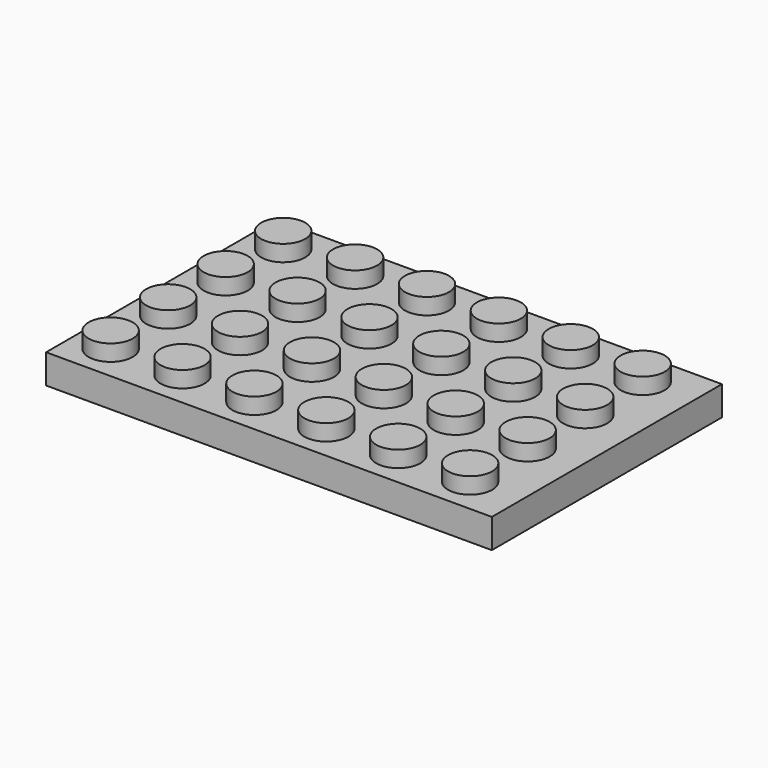
from build123d import *

# Parameters (mm, degrees)
F0_W      = 48.8188
F0_H      = 31.496
F1_DEPTH  = 3.20802
F2_R      = 2.413
F3_DEPTH  = 1.778
F4_DEPTH  = 1.778
F5_DEPTH  = 1.778
F6_DEPTH  = 1.778
F7_DEPTH  = 1.778
F8_DEPTH  = 1.778
F9_T      = -1.5748
F10_R     = 3.2131
F10_R_2   = 2.6224244876
F10_R_3   = 2.5317158825
F10_R_4   = 2.613200879
F11_DEPTH = 1.4563


with BuildPart() as f1:
    # F0 (on Top) → F1 (new body)
    with BuildSketch(Plane.XY):
        with Locations((24.4094, 15.748)):
            Rectangle(F0_W, F0_H)
    extrude(amount=F1_DEPTH)

    # F2 (on face) → F3 (join)
    with BuildSketch(Plane.XY.offset(3.20802)):
        with Locations((3.9209306593, 27.559)):
            Circle(F2_R)
    extrude(amount=F3_DEPTH)

    # F2 (on face) → F4 (join)
    with BuildSketch(Plane.XY.offset(3.20802)):
        with Locations((11.7949306593, 27.559)):
            Circle(F2_R)
    extrude(amount=F4_DEPTH)

    # F2 (on face) → F5 (join)
    with BuildSketch(Plane.XY.offset(3.20802)):
        with Locations((19.6689306593, 27.559)):
            Circle(F2_R)
    extrude(amount=F5_DEPTH)

    # F2 (on face) → F6 (join)
    with BuildSketch(Plane.XY.offset(3.20802)):
        with Locations((27.5429306593, 27.559)):
            Circle(F2_R)
    extrude(amount=F6_DEPTH)

    # F2 (on face) → F7 (join)
    with BuildSketch(Plane.XY.offset(3.20802)):
        with Locations((35.4169306593, 27.559)):
            Circle(F2_R)
    extrude(amount=F7_DEPTH)

    # F2 (on face) → F8 (join)
    with BuildSketch(Plane.XY.offset(3.20802)):
        with Locations((43.2909306593, 27.559)):
            Circle(F2_R)
        with Locations((3.9209306593, 19.685)):
            Circle(F2_R)
        with Locations((11.7949306593, 19.685)):
            Circle(F2_R)
        with Locations((19.6689306593, 19.685)):
            Circle(F2_R)
        with Locations((27.5429306593, 19.685)):
            Circle(F2_R)
        with Locations((35.4169306593, 19.685)):
            Circle(F2_R)
        with Locations((43.2909306593, 19.685)):
            Circle(F2_R)
        with Locations((43.2909306593, 11.811)):
            Circle(F2_R)
        with Locations((35.4169306593, 11.811)):
            Circle(F2_R)
        with Locations((27.5429306593, 11.811)):
            Circle(F2_R)
        with Locations((19.6689306593, 11.811)):
            Circle(F2_R)
        with Locations((11.7949306593, 11.811)):
            Circle(F2_R)
        with Locations((3.9209306593, 11.811)):
            Circle(F2_R)
        with Locations((3.9209306593, 3.937)):
            Circle(F2_R)
        with Locations((11.7949306593, 3.937)):
            Circle(F2_R)
        with Locations((19.6689306593, 3.937)):
            Circle(F2_R)
        with Locations((27.5429306593, 3.937)):
            Circle(F2_R)
        with Locations((35.4169306593, 3.937)):
            Circle(F2_R)
        with Locations((43.2909306593, 3.937)):
            Circle(F2_R)
    extrude(amount=F8_DEPTH)

    # F9
    f9_openings = [f1.faces().sort_by_distance(p)[0] for p in [
        (24.4094, 15.748, 0),
    ]]
    offset(amount=F9_T, openings=f9_openings, kind=Kind.INTERSECTION)

    # F10 (on face) → F11 (join)
    with BuildSketch(Plane(origin=(0, 0, 1.63322), x_dir=(1, 0, 0), z_dir=(0, 0, -1))):
        with Locations((15.7772629731, -7.8114119043)):
            Circle(F10_R)
        with Locations((15.7772629731, -7.8114119043)):
            Circle(F10_R_2, mode=Mode.SUBTRACT)
        with Locations((7.9032629731, -7.8114119043)):
            Circle(F10_R)
        with Locations((7.9032629731, -7.8114119043)):
            Circle(F10_R_2, mode=Mode.SUBTRACT)
        with Locations((23.6512629731, -7.8114119043)):
            Circle(F10_R)
        with Locations((23.6512629731, -7.8114119043)):
            Circle(F10_R_2, mode=Mode.SUBTRACT)
        with Locations((31.5252629731, -7.8114119043)):
            Circle(F10_R)
        with Locations((31.5252629731, -7.8114119043)):
            Circle(F10_R_2, mode=Mode.SUBTRACT)
        with Locations((39.3992629731, -7.8114119043)):
            Circle(F10_R)
        with Locations((39.3992629731, -7.8114119043)):
            Circle(F10_R_2, mode=Mode.SUBTRACT)
        with Locations((39.3992629731, -15.8124119043)):
            Circle(F10_R)
        with Locations((39.3992629731, -15.8124119043)):
            Circle(F10_R_3, mode=Mode.SUBTRACT)
        with Locations((31.5252629731, -15.8124119043)):
            Circle(F10_R)
        with Locations((31.5252629731, -15.8124119043)):
            Circle(F10_R_3, mode=Mode.SUBTRACT)
        with Locations((23.6512629731, -15.8124119043)):
            Circle(F10_R)
        with Locations((23.6512629731, -15.8124119043)):
            Circle(F10_R_3, mode=Mode.SUBTRACT)
        with Locations((15.7772629731, -15.8124119043)):
            Circle(F10_R)
        with Locations((15.7772629731, -15.8124119043)):
            Circle(F10_R_3, mode=Mode.SUBTRACT)
        with Locations((7.9032629731, -15.8124119043)):
            Circle(F10_R)
        with Locations((7.9032629731, -15.8124119043)):
            Circle(F10_R_3, mode=Mode.SUBTRACT)
        with Locations((7.9032629731, -23.8134119043)):
            Circle(F10_R)
        with Locations((7.9032629731, -23.8134119043)):
            Circle(F10_R_4, mode=Mode.SUBTRACT)
        with Locations((15.7772629731, -23.8134119043)):
            Circle(F10_R)
        with Locations((15.7772629731, -23.8134119043)):
            Circle(F10_R_4, mode=Mode.SUBTRACT)
        with Locations((23.6512629731, -23.8134119043)):
            Circle(F10_R)
        with Locations((23.6512629731, -23.8134119043)):
            Circle(F10_R_4, mode=Mode.SUBTRACT)
        with Locations((31.5252629731, -23.8134119043)):
            Circle(F10_R)
        with Locations((31.5252629731, -23.8134119043)):
            Circle(F10_R_4, mode=Mode.SUBTRACT)
        with Locations((39.3992629731, -23.8134119043)):
            Circle(F10_R)
        with Locations((39.3992629731, -23.8134119043)):
            Circle(F10_R_4, mode=Mode.SUBTRACT)
    extrude(amount=F11_DEPTH)


solid = f1.part
